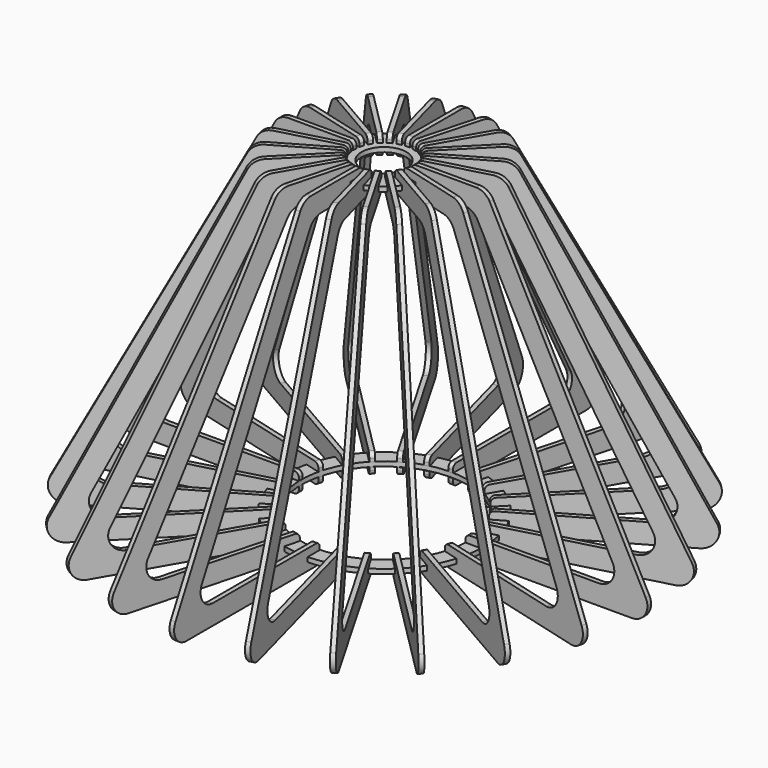
from build123d import *

# Parameters (mm, degrees)
F0_R     = 14.5
F1_DEPTH = 3
F3_DEPTH = 1.5
F5_R     = 54
F6_DEPTH = 3
F7_COUNT = 24


with BuildPart() as f1:
    # F0 (on Top) → F1 (new body)
    with BuildSketch(Plane.XY):
        with BuildLine():
            Line((-1.45, 25), (-1.45, 29))
            ThreePointArc((-1.45, 29), (-3.789988, 28.787818), (-6.10516, 28.387137))
            Line((-6.10516, 28.387137), (-5.069884, 24.523433))
            Line((-5.069884, 24.523433), (-7.871069, 23.772858))
            Line((-7.871069, 23.772858), (-8.906345, 27.636561))
            ThreePointArc((-8.906345, 27.636561), (-11.111683, 26.825976), (-13.244263, 25.839737))
            Line((-13.244263, 25.839737), (-11.244263, 22.375635))
            Line((-11.244263, 22.375635), (-13.755737, 20.925635))
            Line((-13.755737, 20.925635), (-15.755737, 24.389737))
            ThreePointArc((-15.755737, 24.389737), (-17.676135, 23.035988), (-19.480792, 21.531401))
            Line((-19.480792, 21.531401), (-16.652365, 18.702974))
            Line((-16.652365, 18.702974), (-18.702974, 16.652365))
            Line((-18.702974, 16.652365), (-21.531401, 19.480792))
            ThreePointArc((-21.531401, 19.480792), (-23.035988, 17.676135), (-24.389737, 15.755737))
            Line((-24.389737, 15.755737), (-20.925635, 13.755737))
            Line((-20.925635, 13.755737), (-22.375635, 11.244263))
            Line((-22.375635, 11.244263), (-25.839737, 13.244263))
            ThreePointArc((-25.839737, 13.244263), (-26.825976, 11.111683), (-27.636561, 8.906345))
            Line((-27.636561, 8.906345), (-23.772858, 7.871069))
            Line((-23.772858, 7.871069), (-24.523433, 5.069884))
            Line((-24.523433, 5.069884), (-28.387137, 6.10516))
            ThreePointArc((-28.387137, 6.10516), (-28.787818, 3.789988), (-29, 1.45))
            Line((-29, 1.45), (-25, 1.45))
            Line((-25, 1.45), (-25, -1.45))
            Line((-25, -1.45), (-29, -1.45))
            ThreePointArc((-29, -1.45), (-28.787818, -3.789988), (-28.387137, -6.10516))
            Line((-28.387137, -6.10516), (-24.523433, -5.069884))
            Line((-24.523433, -5.069884), (-23.772858, -7.871069))
            Line((-23.772858, -7.871069), (-27.636561, -8.906345))
            ThreePointArc((-27.636561, -8.906345), (-26.825976, -11.111683), (-25.839737, -13.244263))
            Line((-25.839737, -13.244263), (-22.375635, -11.244263))
            Line((-22.375635, -11.244263), (-20.925635, -13.755737))
            Line((-20.925635, -13.755737), (-24.389737, -15.755737))
            ThreePointArc((-24.389737, -15.755737), (-23.035988, -17.676135), (-21.531401, -19.480792))
            Line((-21.531401, -19.480792), (-18.702974, -16.652365))
            Line((-18.702974, -16.652365), (-16.652365, -18.702974))
            Line((-16.652365, -18.702974), (-19.480792, -21.531401))
            ThreePointArc((-19.480792, -21.531401), (-17.676135, -23.035988), (-15.755737, -24.389737))
            Line((-15.755737, -24.389737), (-13.755737, -20.925635))
            Line((-13.755737, -20.925635), (-11.244263, -22.375635))
            Line((-11.244263, -22.375635), (-13.244263, -25.839737))
            ThreePointArc((-13.244263, -25.839737), (-11.111683, -26.825976), (-8.906345, -27.636561))
            Line((-8.906345, -27.636561), (-7.871069, -23.772858))
            Line((-7.871069, -23.772858), (-5.069884, -24.523433))
            Line((-5.069884, -24.523433), (-6.10516, -28.387137))
            ThreePointArc((-6.10516, -28.387137), (-3.789988, -28.787818), (-1.45, -29))
            Line((-1.45, -29), (-1.45, -25))
            Line((-1.45, -25), (1.45, -25))
            Line((1.45, -25), (1.45, -29))
            ThreePointArc((1.45, -29), (3.789988, -28.787818), (6.10516, -28.387137))
            Line((6.10516, -28.387137), (5.069884, -24.523433))
            Line((5.069884, -24.523433), (7.871069, -23.772858))
            Line((7.871069, -23.772858), (8.906345, -27.636561))
            ThreePointArc((8.906345, -27.636561), (11.111683, -26.825976), (13.244263, -25.839737))
            Line((13.244263, -25.839737), (11.244263, -22.375635))
            Line((11.244263, -22.375635), (13.755737, -20.925635))
            Line((13.755737, -20.925635), (15.755737, -24.389737))
            ThreePointArc((15.755737, -24.389737), (17.676135, -23.035988), (19.480792, -21.531401))
            Line((19.480792, -21.531401), (16.652365, -18.702974))
            Line((16.652365, -18.702974), (18.702974, -16.652365))
            Line((18.702974, -16.652365), (21.531401, -19.480792))
            ThreePointArc((21.531401, -19.480792), (23.035988, -17.676135), (24.389737, -15.755737))
            Line((24.389737, -15.755737), (20.925635, -13.755737))
            Line((20.925635, -13.755737), (22.375635, -11.244263))
            Line((22.375635, -11.244263), (25.839737, -13.244263))
            ThreePointArc((25.839737, -13.244263), (26.825976, -11.111683), (27.636561, -8.906345))
            Line((27.636561, -8.906345), (23.772858, -7.871069))
            Line((23.772858, -7.871069), (24.523433, -5.069884))
            Line((24.523433, -5.069884), (28.387137, -6.10516))
            ThreePointArc((28.387137, -6.10516), (28.787818, -3.789988), (29, -1.45))
            Line((29, -1.45), (25, -1.45))
            Line((25, -1.45), (25, 1.45))
            Line((25, 1.45), (29, 1.45))
            ThreePointArc((29, 1.45), (28.787818, 3.789988), (28.387137, 6.10516))
            Line((28.387137, 6.10516), (24.523433, 5.069884))
            Line((24.523433, 5.069884), (23.772858, 7.871069))
            Line((23.772858, 7.871069), (27.636561, 8.906345))
            ThreePointArc((27.636561, 8.906345), (26.825976, 11.111683), (25.839737, 13.244263))
            Line((25.839737, 13.244263), (22.375635, 11.244263))
            Line((22.375635, 11.244263), (20.925635, 13.755737))
            Line((20.925635, 13.755737), (24.389737, 15.755737))
            ThreePointArc((24.389737, 15.755737), (23.035988, 17.676135), (21.531401, 19.480792))
            Line((21.531401, 19.480792), (18.702974, 16.652365))
            Line((18.702974, 16.652365), (16.652365, 18.702974))
            Line((16.652365, 18.702974), (19.480792, 21.531401))
            ThreePointArc((19.480792, 21.531401), (17.676135, 23.035988), (15.755737, 24.389737))
            Line((15.755737, 24.389737), (13.755737, 20.925635))
            Line((13.755737, 20.925635), (11.244263, 22.375635))
            Line((11.244263, 22.375635), (13.244263, 25.839737))
            ThreePointArc((13.244263, 25.839737), (11.111683, 26.825976), (8.906345, 27.636561))
            Line((8.906345, 27.636561), (7.871069, 23.772858))
            Line((7.871069, 23.772858), (5.069884, 24.523433))
            Line((5.069884, 24.523433), (6.10516, 28.387137))
            ThreePointArc((6.10516, 28.387137), (3.789988, 28.787818), (1.45, 29))
            Line((1.45, 29), (1.45, 25))
            Line((1.45, 25), (-1.45, 25))
        make_face()
        Circle(F0_R, mode=Mode.SUBTRACT)
    extrude(amount=F1_DEPTH)


with BuildPart() as f3:
    # F2 (on Right) → F3 (new body, symmetric)
    with BuildSketch(Plane.YZ):
        with BuildLine():
            Line((19, 4.9), (19, 2.9))
            Line((19, 2.9), (25, 2.9))
            Line((25, 2.9), (25, 0))
            Line((25, 0), (19, 0))
            Line((19, 0), (19, -2))
            ThreePointArc((19, -2), (19.87868, -4.12132), (22, -5))
            Line((22, -5), (52.949131, -5))
            ThreePointArc((52.949131, -5), (58.126054, -6.444331), (61.807539, -10.360107))
            Line((61.807539, -10.360107), (149.331857, -177.460107))
            ThreePointArc((149.331857, -177.460107), (149.029118, -187.276923), (140.473449, -192.1))
            Line((140.473449, -192.1), (57, -192.1))
            ThreePointArc((57, -192.1), (54.87868, -192.97868), (54, -195.1))
            Line((54, -195.1), (54, -197.1))
            Line((54, -197.1), (60, -197.1))
            Line((60, -197.1), (60, -200))
            Line((60, -200), (54, -200))
            Line((54, -200), (54, -202))
            ThreePointArc((54, -202), (54.87868, -204.12132), (57, -205))
            Line((57, -205), (161.905587, -205))
            ThreePointArc((161.905587, -205), (170.461255, -200.176923), (170.763995, -190.360107))
            Line((170.763995, -190.360107), (69.726047, 2.539893))
            ThreePointArc((69.726047, 2.539893), (66.044563, 6.455669), (60.867639, 7.9))
            Line((60.867639, 7.9), (22, 7.9))
            ThreePointArc((22, 7.9), (19.87868, 7.02132), (19, 4.9))
        make_face()
    extrude(amount=F3_DEPTH, both=True)


with BuildPart() as f6:
    # F5 (on offset) → F6 (new body)
    with BuildSketch(Plane.XY.offset(-200)):
        with BuildLine():
            Line((-1.450002, 60.339329), (-1.450002, 64.339329))
            ThreePointArc((-1.450002, 64.339329), (-8.355822, 63.808083), (-15.163828, 62.53387))
            Line((-15.163828, 62.53387), (-14.128552, 58.670166))
            Line((-14.128552, 58.670166), (-16.929737, 57.919591))
            Line((-16.929737, 57.919591), (-17.965013, 61.783294))
            ThreePointArc((-17.965013, 61.783294), (-24.498027, 59.482793), (-30.744265, 56.489955))
            Line((-30.744265, 56.489955), (-28.744265, 53.025853))
            Line((-28.744265, 53.025853), (-31.255739, 51.575853))
            Line((-31.255739, 51.575853), (-33.255739, 55.039955))
            ThreePointArc((-33.255739, 55.039955), (-38.970731, 51.126973), (-44.229531, 46.619468))
            Line((-44.229531, 46.619468), (-41.401104, 43.791041))
            Line((-41.401104, 43.791041), (-43.451714, 41.740431))
            Line((-43.451714, 41.740431), (-46.280141, 44.568858))
            ThreePointArc((-46.280141, 44.568858), (-50.787645, 39.310059), (-54.700628, 33.595066))
            Line((-54.700628, 33.595066), (-51.236526, 31.595066))
            Line((-51.236526, 31.595066), (-52.686526, 29.083592))
            Line((-52.686526, 29.083592), (-56.150628, 31.083592))
            ThreePointArc((-56.150628, 31.083592), (-59.143465, 24.837354), (-61.443967, 18.30434))
            Line((-61.443967, 18.30434), (-57.580264, 17.269064))
            Line((-57.580264, 17.269064), (-58.330839, 14.467879))
            Line((-58.330839, 14.467879), (-62.194542, 15.503156))
            ThreePointArc((-62.194542, 15.503156), (-63.468756, 8.695149), (-64.000002, 1.789329))
            Line((-64.000002, 1.789329), (-60.000002, 1.789329))
            Line((-60.000002, 1.789329), (-60.000002, -1.110671))
            Line((-60.000002, -1.110671), (-64.000002, -1.110671))
            ThreePointArc((-64.000002, -1.110671), (-63.468756, -8.016491), (-62.194542, -14.824497))
            Line((-62.194542, -14.824497), (-58.330839, -13.789221))
            Line((-58.330839, -13.789221), (-57.580264, -16.590406))
            Line((-57.580264, -16.590406), (-61.443967, -17.625682))
            ThreePointArc((-61.443967, -17.625682), (-59.143465, -24.158696), (-56.150628, -30.404934))
            Line((-56.150628, -30.404934), (-52.686526, -28.404934))
            Line((-52.686526, -28.404934), (-51.236526, -30.916408))
            Line((-51.236526, -30.916408), (-54.700628, -32.916408))
            ThreePointArc((-54.700628, -32.916408), (-50.787645, -38.6314), (-46.280141, -43.8902))
            Line((-46.280141, -43.8902), (-43.451714, -41.061773))
            Line((-43.451714, -41.061773), (-41.401104, -43.112383))
            Line((-41.401104, -43.112383), (-44.229531, -45.94081))
            ThreePointArc((-44.229531, -45.94081), (-38.970731, -50.448314), (-33.255739, -54.361297))
            Line((-33.255739, -54.361297), (-31.255739, -50.897195))
            Line((-31.255739, -50.897195), (-28.744265, -52.347195))
            Line((-28.744265, -52.347195), (-30.744265, -55.811297))
            ThreePointArc((-30.744265, -55.811297), (-24.498027, -58.804134), (-17.965013, -61.104636))
            Line((-17.965013, -61.104636), (-16.929737, -57.240933))
            Line((-16.929737, -57.240933), (-14.128552, -57.991508))
            Line((-14.128552, -57.991508), (-15.163828, -61.855211))
            ThreePointArc((-15.163828, -61.855211), (-8.355822, -63.129425), (-1.450002, -63.660671))
            Line((-1.450002, -63.660671), (-1.450002, -59.660671))
            Line((-1.450002, -59.660671), (1.449998, -59.660671))
            Line((1.449998, -59.660671), (1.449998, -63.660671))
            ThreePointArc((1.449998, -63.660671), (8.355818, -63.129425), (15.163825, -61.855211))
            Line((15.163825, -61.855211), (14.128548, -57.991508))
            Line((14.128548, -57.991508), (16.929733, -57.240933))
            Line((16.929733, -57.240933), (17.965009, -61.104636))
            ThreePointArc((17.965009, -61.104636), (24.498023, -58.804134), (30.744261, -55.811297))
            Line((30.744261, -55.811297), (28.744261, -52.347195))
            Line((28.744261, -52.347195), (31.255735, -50.897195))
            Line((31.255735, -50.897195), (33.255735, -54.361297))
            ThreePointArc((33.255735, -54.361297), (38.970728, -50.448314), (44.229527, -45.94081))
            Line((44.229527, -45.94081), (41.4011, -43.112383))
            Line((41.4011, -43.112383), (43.45171, -41.061773))
            Line((43.45171, -41.061773), (46.280137, -43.8902))
            ThreePointArc((46.280137, -43.8902), (50.787642, -38.6314), (54.700624, -32.916408))
            Line((54.700624, -32.916408), (51.236522, -30.916408))
            Line((51.236522, -30.916408), (52.686522, -28.404934))
            Line((52.686522, -28.404934), (56.150624, -30.404934))
            ThreePointArc((56.150624, -30.404934), (59.143462, -24.158696), (61.443963, -17.625682))
            Line((61.443963, -17.625682), (57.58026, -16.590406))
            Line((57.58026, -16.590406), (58.330835, -13.789221))
            Line((58.330835, -13.789221), (62.194539, -14.824497))
            ThreePointArc((62.194539, -14.824497), (63.468752, -8.016491), (63.999998, -1.110671))
            Line((63.999998, -1.110671), (59.999998, -1.110671))
            Line((59.999998, -1.110671), (59.999998, 1.789329))
            Line((59.999998, 1.789329), (63.999998, 1.789329))
            ThreePointArc((63.999998, 1.789329), (63.468752, 8.695149), (62.194539, 15.503156))
            Line((62.194539, 15.503156), (58.330835, 14.467879))
            Line((58.330835, 14.467879), (57.58026, 17.269064))
            Line((57.58026, 17.269064), (61.443963, 18.30434))
            ThreePointArc((61.443963, 18.30434), (59.143462, 24.837354), (56.150624, 31.083592))
            Line((56.150624, 31.083592), (52.686522, 29.083592))
            Line((52.686522, 29.083592), (51.236522, 31.595066))
            Line((51.236522, 31.595066), (54.700624, 33.595066))
            ThreePointArc((54.700624, 33.595066), (50.787642, 39.310059), (46.280137, 44.568858))
            Line((46.280137, 44.568858), (43.45171, 41.740431))
            Line((43.45171, 41.740431), (41.4011, 43.791041))
            Line((41.4011, 43.791041), (44.229527, 46.619468))
            ThreePointArc((44.229527, 46.619468), (38.970728, 51.126973), (33.255735, 55.039955))
            Line((33.255735, 55.039955), (31.255735, 51.575853))
            Line((31.255735, 51.575853), (28.744261, 53.025853))
            Line((28.744261, 53.025853), (30.744261, 56.489955))
            ThreePointArc((30.744261, 56.489955), (24.498023, 59.482793), (17.965009, 61.783294))
            Line((17.965009, 61.783294), (16.929733, 57.919591))
            Line((16.929733, 57.919591), (14.128548, 58.670166))
            Line((14.128548, 58.670166), (15.163825, 62.53387))
            ThreePointArc((15.163825, 62.53387), (8.355818, 63.808083), (1.449998, 64.339329))
            Line((1.449998, 64.339329), (1.449998, 60.339329))
            Line((1.449998, 60.339329), (-1.450002, 60.339329))
        make_face()
        with Locations((-2e-06, 0.339329)):
            Circle(F5_R, mode=Mode.SUBTRACT)
    extrude(amount=F6_DEPTH)


with BuildPart() as f7_1:
    # F7: instance of F3
    add(f3.part.rotate(Axis((0, 0, 3), (0, 0, 1)), 1 * 360 / F7_COUNT))


with BuildPart() as f7_2:
    # F7: instance of F3
    add(f3.part.rotate(Axis((0, 0, 3), (0, 0, 1)), 2 * 360 / F7_COUNT))


with BuildPart() as f7_3:
    # F7: instance of F3
    add(f3.part.rotate(Axis((0, 0, 3), (0, 0, 1)), 3 * 360 / F7_COUNT))


with BuildPart() as f7_4:
    # F7: instance of F3
    add(f3.part.rotate(Axis((0, 0, 3), (0, 0, 1)), 4 * 360 / F7_COUNT))


with BuildPart() as f7_5:
    # F7: instance of F3
    add(f3.part.rotate(Axis((0, 0, 3), (0, 0, 1)), 5 * 360 / F7_COUNT))


with BuildPart() as f7_6:
    # F7: instance of F3
    add(f3.part.rotate(Axis((0, 0, 3), (0, 0, 1)), 6 * 360 / F7_COUNT))


with BuildPart() as f7_7:
    # F7: instance of F3
    add(f3.part.rotate(Axis((0, 0, 3), (0, 0, 1)), 7 * 360 / F7_COUNT))


with BuildPart() as f7_8:
    # F7: instance of F3
    add(f3.part.rotate(Axis((0, 0, 3), (0, 0, 1)), 8 * 360 / F7_COUNT))


with BuildPart() as f7_9:
    # F7: instance of F3
    add(f3.part.rotate(Axis((0, 0, 3), (0, 0, 1)), 9 * 360 / F7_COUNT))


with BuildPart() as f7_10:
    # F7: instance of F3
    add(f3.part.rotate(Axis((0, 0, 3), (0, 0, 1)), 10 * 360 / F7_COUNT))


with BuildPart() as f7_11:
    # F7: instance of F3
    add(f3.part.rotate(Axis((0, 0, 3), (0, 0, 1)), 11 * 360 / F7_COUNT))


with BuildPart() as f7_12:
    # F7: instance of F3
    add(f3.part.rotate(Axis((0, 0, 3), (0, 0, 1)), 12 * 360 / F7_COUNT))


with BuildPart() as f7_13:
    # F7: instance of F3
    add(f3.part.rotate(Axis((0, 0, 3), (0, 0, 1)), 13 * 360 / F7_COUNT))


with BuildPart() as f7_14:
    # F7: instance of F3
    add(f3.part.rotate(Axis((0, 0, 3), (0, 0, 1)), 14 * 360 / F7_COUNT))


with BuildPart() as f7_15:
    # F7: instance of F3
    add(f3.part.rotate(Axis((0, 0, 3), (0, 0, 1)), 15 * 360 / F7_COUNT))


with BuildPart() as f7_16:
    # F7: instance of F3
    add(f3.part.rotate(Axis((0, 0, 3), (0, 0, 1)), 16 * 360 / F7_COUNT))


with BuildPart() as f7_17:
    # F7: instance of F3
    add(f3.part.rotate(Axis((0, 0, 3), (0, 0, 1)), 17 * 360 / F7_COUNT))


with BuildPart() as f7_18:
    # F7: instance of F3
    add(f3.part.rotate(Axis((0, 0, 3), (0, 0, 1)), 18 * 360 / F7_COUNT))


with BuildPart() as f7_19:
    # F7: instance of F3
    add(f3.part.rotate(Axis((0, 0, 3), (0, 0, 1)), 19 * 360 / F7_COUNT))


with BuildPart() as f7_20:
    # F7: instance of F3
    add(f3.part.rotate(Axis((0, 0, 3), (0, 0, 1)), 20 * 360 / F7_COUNT))


with BuildPart() as f7_21:
    # F7: instance of F3
    add(f3.part.rotate(Axis((0, 0, 3), (0, 0, 1)), 21 * 360 / F7_COUNT))


with BuildPart() as f7_22:
    # F7: instance of F3
    add(f3.part.rotate(Axis((0, 0, 3), (0, 0, 1)), 22 * 360 / F7_COUNT))


with BuildPart() as f7_23:
    # F7: instance of F3
    add(f3.part.rotate(Axis((0, 0, 3), (0, 0, 1)), 23 * 360 / F7_COUNT))


solid = Compound([f1.part, f3.part, f6.part, f7_1.part, f7_2.part, f7_3.part, f7_4.part, f7_5.part, f7_6.part, f7_7.part, f7_8.part, f7_9.part, f7_10.part, f7_11.part, f7_12.part, f7_13.part, f7_14.part, f7_15.part, f7_16.part, f7_17.part, f7_18.part, f7_19.part, f7_20.part, f7_21.part, f7_22.part, f7_23.part])
